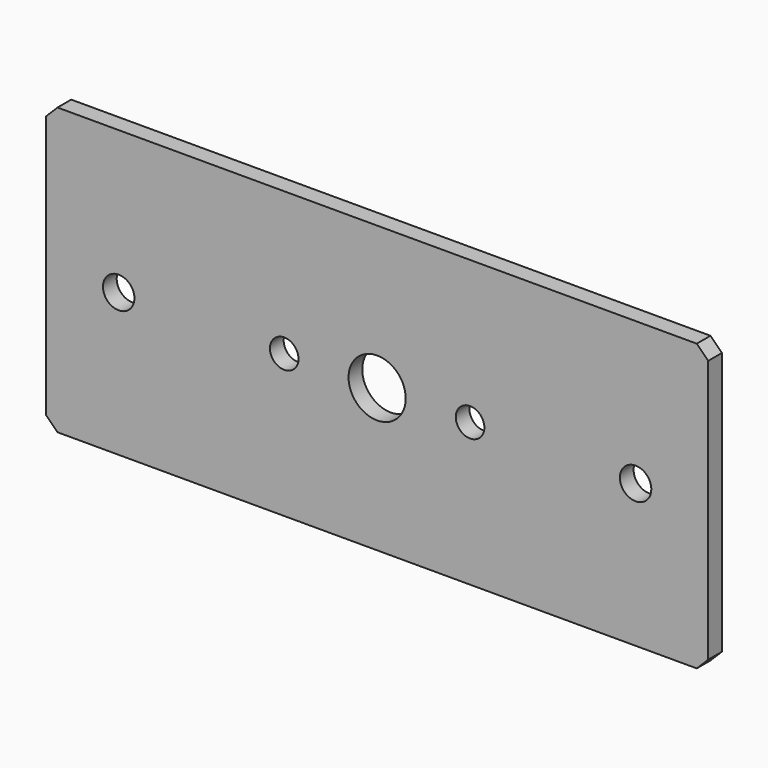
from build123d import *

# Parameters (mm, degrees)
F0_W     = 115.8
F0_H     = 50
F0_R     = 2.75
F0_R_2   = 2.5
F0_R_3   = 5
F1_DEPTH = 3
F2_SIZE  = 2


with BuildPart() as f1:
    # F0 (on Front) → F1 (new body)
    with BuildSketch(Plane.XZ):
        with Locations((57.9, 25)):
            Rectangle(F0_W, F0_H)
        with Locations((12.7, 25)):
            Circle(F0_R, mode=Mode.SUBTRACT)
        with Locations((41.65, 25)):
            Circle(F0_R_2, mode=Mode.SUBTRACT)
        with Locations((57.9, 25)):
            Circle(F0_R_3, mode=Mode.SUBTRACT)
        with Locations((74.15, 25)):
            Circle(F0_R_2, mode=Mode.SUBTRACT)
        with Locations((103.1, 25)):
            Circle(F0_R, mode=Mode.SUBTRACT)
    extrude(amount=F1_DEPTH)

    # F2
    f2_edges = [f1.edges().sort_by_distance(p)[0] for p in [
        (0, -1.5, 0),
        (0, -1.5, 50),
        (115.8, -1.5, 0),
        (115.8, -1.5, 50),
    ]]
    chamfer(f2_edges, length=F2_SIZE)


solid = f1.part
